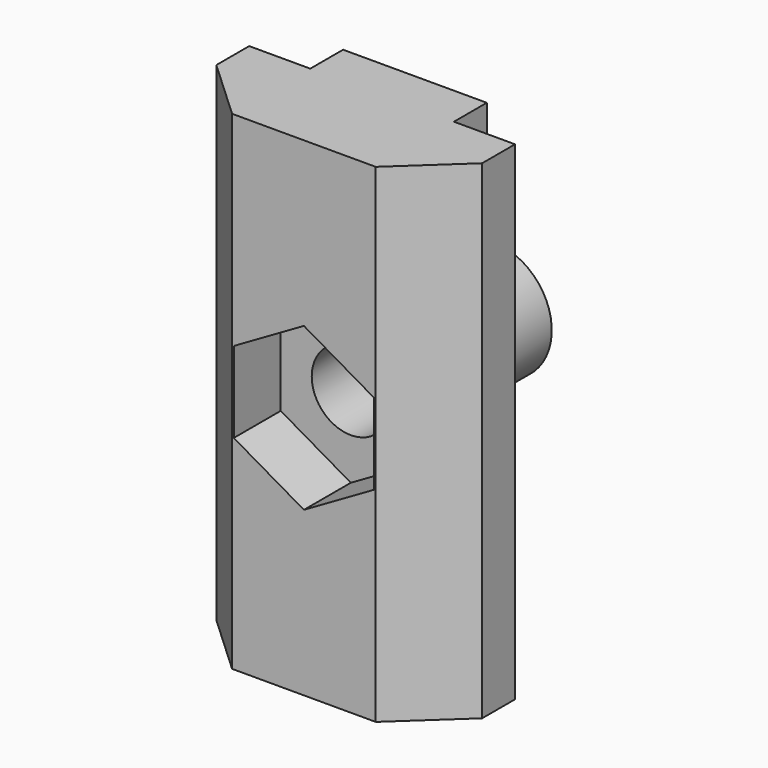
from build123d import *

# Parameters (mm, degrees)
PAD_DEPTH       = 20
SKETCH001_R     = 1.6
POCKET_DEPTH    = 5.68
SKETCH002_R     = 2.4
SKETCH002_R_2   = 1.6
PAD001_DEPTH    = 4
SKETCH003_R     = 1.6
POCKET001_DEPTH = 2.4


with BuildPart() as part:
    # Sketch → Pad (new body)
    with BuildSketch(Plane.XY):
        Polygon((2.94, -2.84), (-2.94, -2.84), (-5.44, -0.52), (-5.44, 1.16), (-2.94, 1.16), (-2.94, 2.84), (2.94, 2.84), (2.94, 1.16), (5.44, 1.16), (5.44, -0.52), align=None)
    extrude(amount=PAD_DEPTH)

    # Sketch001 (on Face6 of Pad) → Pocket (cut)
    with BuildSketch(Plane(origin=(0, 2.84, 0), x_dir=(-1, 0, 0), z_dir=(0, 1, 0))):
        with Locations((0, 10)):
            Circle(SKETCH001_R)
    extrude(amount=-POCKET_DEPTH, mode=Mode.SUBTRACT)

    # Sketch002 (on Face11 of Pocket) → Pad001 (join)
    with BuildSketch(Plane(origin=(0, 2.84, 0), x_dir=(-1, 0, 0), z_dir=(0, 1, 0))):
        with Locations((0, 10)):
            Circle(SKETCH002_R)
        with Locations((0, 10)):
            Circle(SKETCH002_R_2, mode=Mode.SUBTRACT)
    extrude(amount=PAD001_DEPTH)

    # Sketch003 (on Face1 of Pad001) → Pocket001 (cut)
    with BuildSketch(Plane.XZ.offset(2.84)):
        Polygon((0, 6.686009), (2.87, 8.343005), (2.87, 11.656995), (0, 13.313991), (-2.87, 11.656995), (-2.87, 8.343005), align=None)
        with Locations((0, 10)):
            Circle(SKETCH003_R, mode=Mode.SUBTRACT)
    extrude(amount=-POCKET001_DEPTH, mode=Mode.SUBTRACT)


solid = part.part
